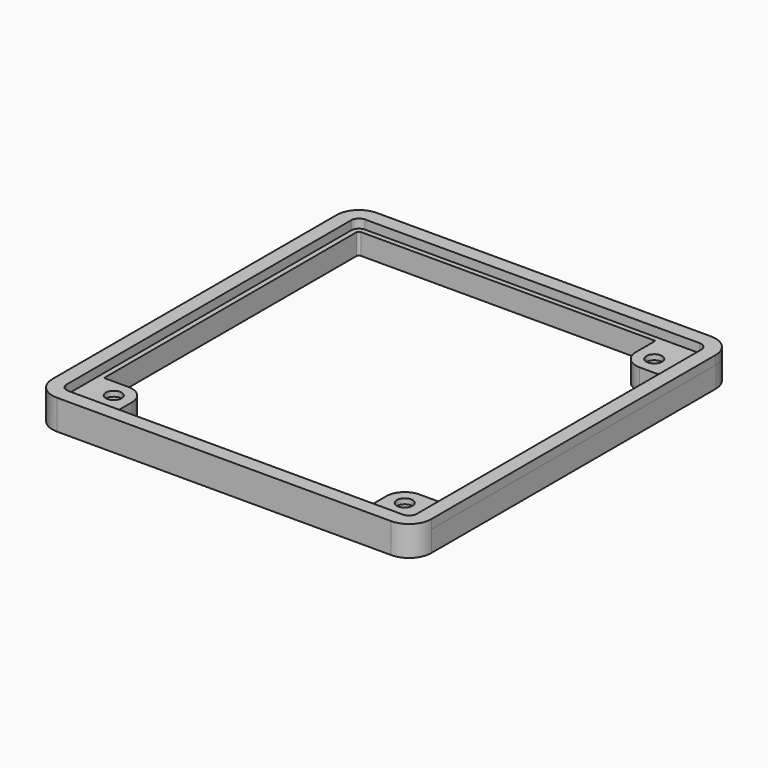
from build123d import *

# Parameters (mm, degrees)
PAD007_DEPTH      = 1.5
PAD007_DEPTH_BACK = 0.2
SKETCH008_R       = 1.5
PAD008_DEPTH      = 4
POCKET006_DEPTH   = 3


with BuildPart() as part:
    # Sketch007 → Pad007 (new body, two sides)
    with BuildSketch(Plane.XY) as pad007_sk:
        with BuildLine():
            ThreePointArc((-31.9, 38.15), (-34.905204, 36.905204), (-36.15, 33.9))
            Line((-36.15, -33.9), (-36.15, 33.9))
            ThreePointArc((-36.15, -33.9), (-34.905204, -36.905204), (-31.9, -38.15))
            Line((31.9, -38.15), (-31.9, -38.15))
            ThreePointArc((31.9, -38.15), (34.905204, -36.905204), (36.15, -33.9))
            Line((36.15, 33.9), (36.15, -33.9))
            ThreePointArc((36.15, 33.9), (34.905204, 36.905204), (31.9, 38.15))
            Line((-31.9, 38.15), (31.9, 38.15))
        make_face()
        with BuildLine():
            ThreePointArc((-31.9, 35.4), (-32.96066, 34.96066), (-33.4, 33.9))
            Line((-33.4, -33.9), (-33.4, 33.9))
            ThreePointArc((-33.4, -33.9), (-32.96066, -34.96066), (-31.9, -35.4))
            Line((31.9, -35.4), (-31.9, -35.4))
            ThreePointArc((31.9, -35.4), (32.96066, -34.96066), (33.4, -33.9))
            Line((33.4, 33.9), (33.4, -33.9))
            ThreePointArc((33.4, 33.9), (32.96066, 34.96066), (31.9, 35.4))
            Line((-31.9, 35.4), (31.9, 35.4))
        make_face(mode=Mode.SUBTRACT)
    extrude(amount=-PAD007_DEPTH)
    extrude(pad007_sk.sketch, amount=PAD007_DEPTH_BACK)

    # Sketch008 → Pad008 (join)
    with BuildSketch(Plane(origin=(0, 0, -1.5), x_dir=(-1, 0, 0), z_dir=(0, 0, -1))):
        with BuildLine():
            ThreePointArc((-31.9, 38.15), (-34.869436, 36.94055), (-36.14881, 34.000563))
            Line((-36.15, -33.9), (-36.14881, 34.000563))
            ThreePointArc((-36.15, -33.9), (-34.905204, -36.905204), (-31.9, -38.15))
            Line((31.9, -38.15), (-31.9, -38.15))
            ThreePointArc((31.9, -38.15), (34.905204, -36.905204), (36.15, -33.9))
            Line((36.15, 33.9), (36.15, -33.9))
            ThreePointArc((36.15, 33.9), (34.905204, 36.905204), (31.9, 38.15))
            Line((-31.9, 38.15), (31.9, 38.15))
        make_face()
        with Locations((-27.75, 29.75)):
            Circle(SKETCH008_R, mode=Mode.SUBTRACT)
        with Locations((-27.75, -29.75)):
            Circle(SKETCH008_R, mode=Mode.SUBTRACT)
        with Locations((27.75, -29.75)):
            Circle(SKETCH008_R, mode=Mode.SUBTRACT)
        with BuildLine():
            ThreePointArc((-27.75, 26.25), (-25.275126, 27.275126), (-24.25, 29.75))
            Line((-24.25, 29.75), (-24.25, 34.4))
            Line((-24.25, 34.4), (31.9, 34.4))
            ThreePointArc((32.4, 33.9), (32.253553, 34.253553), (31.9, 34.4))
            Line((32.4, 33.9), (32.4, -26.25))
            Line((27.75, -26.25), (32.4, -26.25))
            ThreePointArc((27.75, -26.25), (25.275126, -27.275126), (24.25, -29.75))
            Line((24.25, -29.75), (24.25, -34.4))
            Line((-24.25, -34.4), (24.25, -34.4))
            Line((-24.25, -34.4), (-24.25, -29.75))
            ThreePointArc((-24.25, -29.75), (-25.275126, -27.275126), (-27.75, -26.25))
            Line((-32.4, -26.25), (-27.75, -26.25))
            Line((-32.4, 26.25), (-32.4, -26.25))
            Line((-32.4, 26.25), (-27.75, 26.25))
        make_face(mode=Mode.SUBTRACT)
    extrude(amount=PAD008_DEPTH)

    # Sketch021 → Pocket006 (cut)
    with BuildSketch(Plane(origin=(0, 0, -5.5), x_dir=(-1, 0, 0), z_dir=(0, 0, -1))):
        Polygon((-25, 28.162287), (-25, 31.337713), (-27.75, 32.925426), (-30.5, 31.337713), (-30.5, 28.162287), (-27.75, 26.574574), align=None)
        Polygon((-25, -31.337713), (-25, -28.162287), (-27.75, -26.574574), (-30.5, -28.162287), (-30.5, -31.337713), (-27.75, -32.925426), align=None)
        Polygon((30.5, -31.337713), (30.5, -28.162287), (27.75, -26.574574), (25, -28.162287), (25, -31.337713), (27.75, -32.925426), align=None)
    extrude(amount=-POCKET006_DEPTH, mode=Mode.SUBTRACT)


solid = part.part
